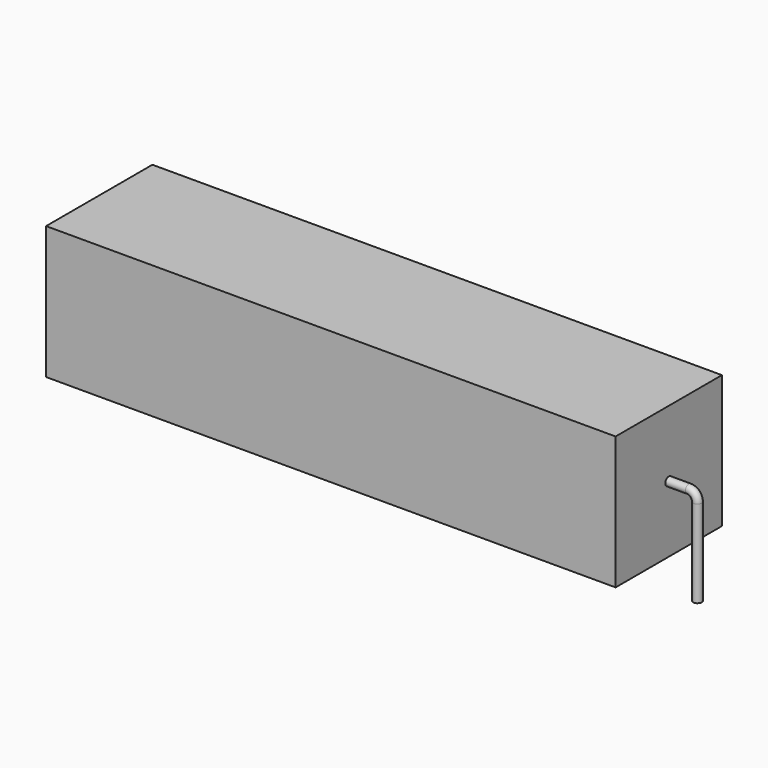
from build123d import *

# Parameters (mm, degrees)
SKETCH_R    = 0.45
SKETCH002_W = 60
SKETCH002_H = 14
PAD_DEPTH   = 7


with BuildPart() as sweep_body:
    # Sweep: sweep along a path in Sketch001
    with BuildLine(Plane.XZ) as sweep_path:
        Line((0, -3), (0, 6.2))
        ThreePointArc((0, 6.2), (0.263601, 6.836393), (0.899991, 7.1))
        Line((0.899991, 7.1), (65.14, 7.1))
        ThreePointArc((65.14, 7.1), (65.776396, 6.836396), (66.04, 6.2))
        Line((66.04, 6.2), (66.04, -3))
    # Sketch → Sweep (sweep)
    with BuildSketch(Plane.XY.offset(-2)):
        Circle(SKETCH_R)
    sweep(path=sweep_path.line)


with BuildPart() as pad:
    # Sketch002 → Pad (new body, symmetric)
    with BuildSketch(Plane.XZ):
        with Locations((33.02, 7.1)):
            Rectangle(SKETCH002_W, SKETCH002_H)
    extrude(amount=PAD_DEPTH, both=True)


solid = Compound([sweep_body.part, pad.part])
